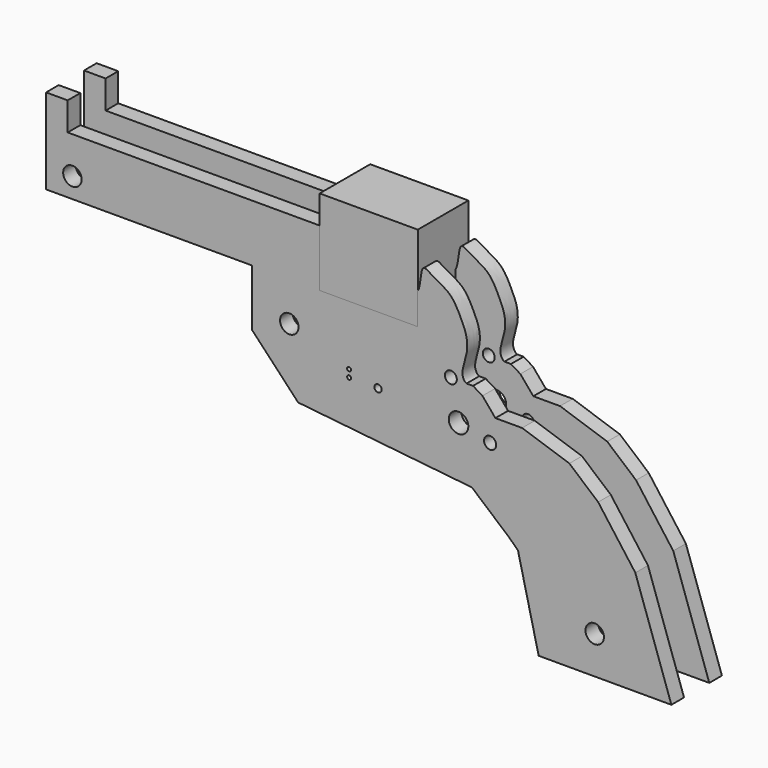
from build123d import *

# Parameters (mm, degrees)
F2_DEPTH = 12.7
F3_START = 6.35
F0_R     = 3.7188990141
F0_R_2   = 1.4612303456
F0_R_3   = 3.9326336978
F0_R_4   = 2.4477910309
F0_R_5   = 2.4042066943
F3_DEPTH = 6.35
F4_START = -6.35
F4_DEPTH = 6.35


with BuildPart() as f2:
    # F1 (on Front) → F2 (new body, symmetric)
    with BuildSketch(Plane.XZ):
        Polygon((-2.0850271491, 22.5536132524), (-2.0850271491, 35.0963034029), (-2.0850271491, 57.0375945712), (-41.5438192781, 57.0375945712), (-41.5438192781, 22.5536132524), align=None)
    extrude(amount=F2_DEPTH, both=True)


with BuildPart() as f3:
    # F0 (on Front) → F3 (new body)
    with BuildSketch(Plane.XZ.offset(F3_START)):
        with BuildLine():
            add(Edge.make_bspline(
                [(17.5128925602, 8.9675877243), (16.8046966728, 9.2809638886), (15.3758332865, 11.2524222528), (16.4685449536, 15.7873735596), (17.7200520781, 19.4877936893), (18.0881333414, 25.5882222192), (14.5306849927, 32.9547414404), (11.0597819141, 39.1862574006), (4.0722449417, 42.0750473774), (-1.3231913375, 46.6086443125), (-0.889474155, 36.663889741), (-2.2244421454, 35.2303814143)],
                knots=[0, 0, 0, 0, 0.0767491207, 0.1752756348, 0.2683420654, 0.3806943419, 0.5136621557, 0.6367661273, 0.7679186588, 0.8599721851, 1, 1, 1, 1], degree=3))
            Line((-2.2244421454, 35.2303814143), (-2.2244421454, 22.6876912639))
            Line((-2.2244421454, 22.6876912639), (-41.6832342744, 22.6876912639))
            Line((-41.6832342744, 22.6876912639), (-68.8362345099, 22.6876912639))
            Line((-68.8362345099, 22.6876912639), (-68.8362345099, 0))
            Line((-68.8362345099, 0), (-50.1776076853, -19.7750516236))
            Line((-50.1776076853, -19.7750516236), (19.6589585394, -27.1052252501))
            Line((19.6589585394, -27.1052252501), (34.5858559012, -39.8997105658))
            Line((34.5858559012, -39.8997105658), (38.1843075156, -43.3648824692))
            Line((38.1843075156, -43.3648824692), (46.5008579195, -77.9667124152))
            Line((46.5008579195, -77.9667124152), (99.8477127413, -77.9667124152))
            Line((99.8477127413, -77.9667124152), (85.3608783345, -35.9445512295))
            Line((85.3608783345, -35.9445512295), (70.416257904, -15.7945007086))
            Line((70.416257904, -15.7945007086), (58.829979227, -5.8873915114))
            Line((58.829979227, -5.8873915114), (39.8553509276, 0.4934582394))
            Line((39.8553509276, 0.4934582394), (29.1086558263, 0.4934582394))
            Line((29.1086558263, 0.4934582394), (23.9029146741, 6.671173498))
            Line((23.9029146741, 6.671173498), (20.1088387529, 8.9675877243))
            Line((20.1088387529, 8.9675877243), (17.5128925602, 8.9675877243))
        make_face()
        with Locations((69.0272832289, -62.8425204195)):
            Circle(F0_R, mode=Mode.SUBTRACT)
        with BuildLine():
            ThreePointArc((-29.723662883, -3.4906163091), (-29.1658735951, -3.7216601971), (-28.9348297071, -4.279449485))
            ThreePointArc((-28.9348297071, -4.279449485), (-30.281452171, -4.837238773), (-29.723662883, -3.4906163091))
        make_face(mode=Mode.SUBTRACT)
        with BuildLine():
            ThreePointArc((-28.9348297071, -1.3034559088), (-29.1658735951, -1.8612451967), (-29.723662883, -2.0922890847))
            ThreePointArc((-29.723662883, -2.0922890847), (-30.281452171, -0.7456666208), (-28.9348297071, -1.3034559088))
        make_face(mode=Mode.SUBTRACT)
        with Locations((-53.7484511733, 6.9265733473)):
            Circle(F0_R, mode=Mode.SUBTRACT)
        with Locations((-18.0686973035, -4.3285554275)):
            Circle(F0_R_2, mode=Mode.SUBTRACT)
        with Locations((14.2883043736, -5.9880511835)):
            Circle(F0_R_3, mode=Mode.SUBTRACT)
        with Locations((26.9929841161, -8.9564342052)):
            Circle(F0_R_4, mode=Mode.SUBTRACT)
        with Locations((11.2011861056, 9.0913344175)):
            Circle(F0_R_5, mode=Mode.SUBTRACT)
        Polygon((-68.8362345099, 22.6876912639), (-41.6832342744, 22.6876912639), (-41.6832342744, 45.6668362021), (-142.8287029266, 45.6668362021), (-142.8287029266, 57.0265986025), (-151.5186280012, 57.0265986025), (-151.5186280012, 22.6876912639), align=None)
        with Locations((-140.9391984344, 30.8270975947)):
            Circle(F0_R, mode=Mode.SUBTRACT)
    extrude(amount=F3_DEPTH)


with BuildPart() as f4:
    # F0 (on Front) → F4 (new body)
    with BuildSketch(Plane.XZ.offset(F4_START)):
        with BuildLine():
            add(Edge.make_bspline(
                [(17.5128925602, 8.9675877243), (16.8046966728, 9.2809638886), (15.3758332865, 11.2524222528), (16.4685449536, 15.7873735596), (17.7200520781, 19.4877936893), (18.0881333414, 25.5882222192), (14.5306849927, 32.9547414404), (11.0597819141, 39.1862574006), (4.0722449417, 42.0750473774), (-1.3231913375, 46.6086443125), (-0.889474155, 36.663889741), (-2.2244421454, 35.2303814143)],
                knots=[0, 0, 0, 0, 0.0767491207, 0.1752756348, 0.2683420654, 0.3806943419, 0.5136621557, 0.6367661273, 0.7679186588, 0.8599721851, 1, 1, 1, 1], degree=3))
            Line((-2.2244421454, 35.2303814143), (-2.2244421454, 22.6876912639))
            Line((-2.2244421454, 22.6876912639), (-41.6832342744, 22.6876912639))
            Line((-41.6832342744, 22.6876912639), (-68.8362345099, 22.6876912639))
            Line((-68.8362345099, 22.6876912639), (-68.8362345099, 0))
            Line((-68.8362345099, 0), (-50.1776076853, -19.7750516236))
            Line((-50.1776076853, -19.7750516236), (19.6589585394, -27.1052252501))
            Line((19.6589585394, -27.1052252501), (34.5858559012, -39.8997105658))
            Line((34.5858559012, -39.8997105658), (38.1843075156, -43.3648824692))
            Line((38.1843075156, -43.3648824692), (46.5008579195, -77.9667124152))
            Line((46.5008579195, -77.9667124152), (99.8477127413, -77.9667124152))
            Line((99.8477127413, -77.9667124152), (85.3608783345, -35.9445512295))
            Line((85.3608783345, -35.9445512295), (70.416257904, -15.7945007086))
            Line((70.416257904, -15.7945007086), (58.829979227, -5.8873915114))
            Line((58.829979227, -5.8873915114), (39.8553509276, 0.4934582394))
            Line((39.8553509276, 0.4934582394), (29.1086558263, 0.4934582394))
            Line((29.1086558263, 0.4934582394), (23.9029146741, 6.671173498))
            Line((23.9029146741, 6.671173498), (20.1088387529, 8.9675877243))
            Line((20.1088387529, 8.9675877243), (17.5128925602, 8.9675877243))
        make_face()
        with Locations((69.0272832289, -62.8425204195)):
            Circle(F0_R, mode=Mode.SUBTRACT)
        with BuildLine():
            ThreePointArc((-29.723662883, -3.4906163091), (-29.1658735951, -3.7216601971), (-28.9348297071, -4.279449485))
            ThreePointArc((-28.9348297071, -4.279449485), (-30.281452171, -4.837238773), (-29.723662883, -3.4906163091))
        make_face(mode=Mode.SUBTRACT)
        with BuildLine():
            ThreePointArc((-28.9348297071, -1.3034559088), (-29.1658735951, -1.8612451967), (-29.723662883, -2.0922890847))
            ThreePointArc((-29.723662883, -2.0922890847), (-30.281452171, -0.7456666208), (-28.9348297071, -1.3034559088))
        make_face(mode=Mode.SUBTRACT)
        with Locations((-53.7484511733, 6.9265733473)):
            Circle(F0_R, mode=Mode.SUBTRACT)
        with Locations((-18.0686973035, -4.3285554275)):
            Circle(F0_R_2, mode=Mode.SUBTRACT)
        with Locations((14.2883043736, -5.9880511835)):
            Circle(F0_R_3, mode=Mode.SUBTRACT)
        with Locations((26.9929841161, -8.9564342052)):
            Circle(F0_R_4, mode=Mode.SUBTRACT)
        with Locations((11.2011861056, 9.0913344175)):
            Circle(F0_R_5, mode=Mode.SUBTRACT)
        Polygon((-68.8362345099, 22.6876912639), (-41.6832342744, 22.6876912639), (-41.6832342744, 45.6668362021), (-142.8287029266, 45.6668362021), (-142.8287029266, 57.0265986025), (-151.5186280012, 57.0265986025), (-151.5186280012, 22.6876912639), align=None)
        with Locations((-140.9391984344, 30.8270975947)):
            Circle(F0_R, mode=Mode.SUBTRACT)
    extrude(amount=-F4_DEPTH)


solid = Compound([f2.part, f3.part, f4.part])
